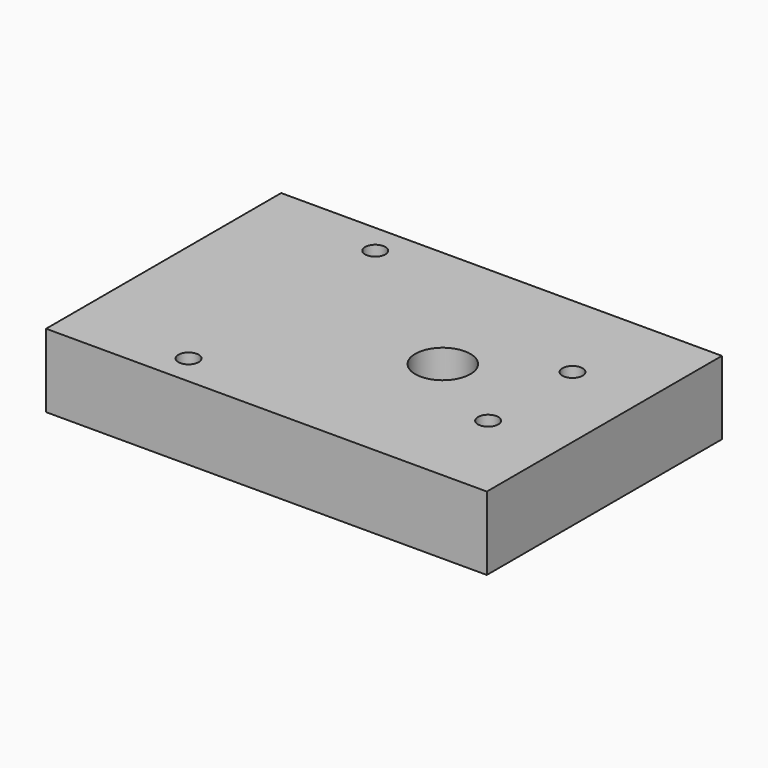
from build123d import *

# Parameters (mm, degrees)
F0_W     = 76.2
F0_H     = 50.8
F1_DEPTH = 12.7
F3_D     = 9.525
F5_D     = 3.5052


with BuildPart() as f1:
    # F0 (on Top) → F1 (new body)
    with BuildSketch(Plane.XY):
        with Locations((-10.16, 0)):
            Rectangle(F0_W, F0_H)
    extrude(amount=F1_DEPTH)

    # F3 (through all)
    with Locations(Plane.XY.offset(12.7)):
        with Locations((0, 0)):
            Hole(F3_D / 2)

    # F5 (through all)
    with Locations(Plane.XY.offset(12.7)):
        with Locations((15.1384, 9.1186), (15.1384, -9.1186), (-27.813, 20.1676), (-27.813, -20.1676)):
            Hole(F5_D / 2)


solid = f1.part
